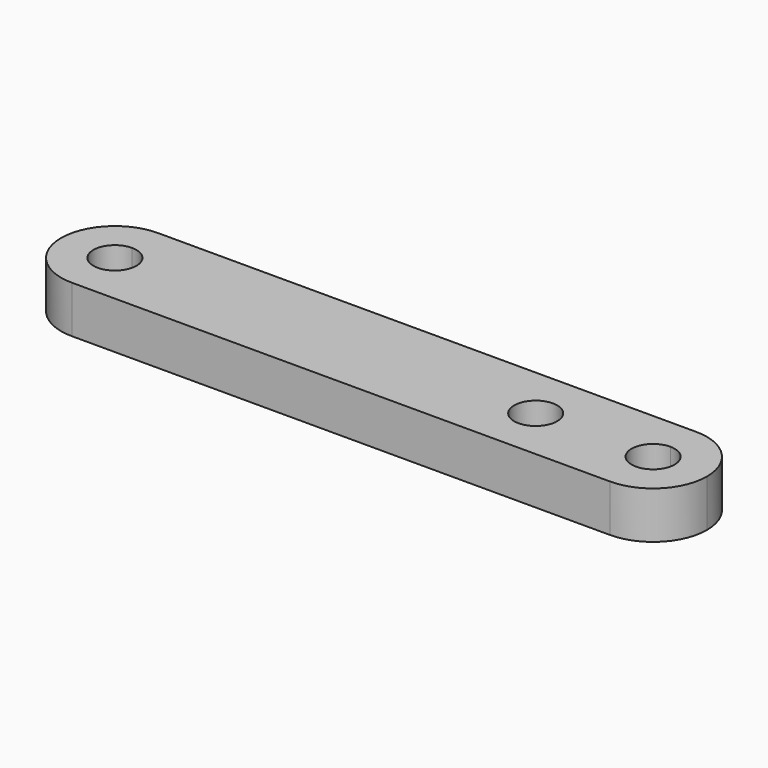
from build123d import *

# Parameters (mm, degrees)
F1_DEPTH = 3.5
F2_R     = 1.6
F3_DEPTH = 3.501


with BuildPart() as f1:
    # F0 (on Top) → F1 (new body)
    with BuildSketch(Plane.XY):
        with BuildLine():
            ThreePointArc((20, 4), (16, 0), (20, -4))
            Line((20, -4), (20, 4))
        make_face()
        with BuildLine():
            Line((-20, -4), (20, -4))
            ThreePointArc((20, -4), (16, 0), (20, 4))
            Line((20, 4), (-20, 4))
            ThreePointArc((-20, 4), (-17.1715728753, 2.8284271247), (-16, 0))
            ThreePointArc((-16, 0), (-17.1715728753, -2.8284271247), (-20, -4))
        make_face()
        with BuildLine():
            Line((20, 4), (20, -4))
            ThreePointArc((20, -4), (22.8284271247, -2.8284271247), (24, 0))
            ThreePointArc((24, 0), (22.8284271247, 2.8284271247), (20, 4))
        make_face()
        with BuildLine():
            ThreePointArc((-20, 4), (-24, 0), (-20, -4))
            Line((-20, -4), (-20, 4))
        make_face()
        with BuildLine():
            Line((-20, 4), (-20, -4))
            ThreePointArc((-20, -4), (-17.1715728753, -2.8284271247), (-16, 0))
            ThreePointArc((-16, 0), (-17.1715728753, 2.8284271247), (-20, 4))
        make_face()
    extrude(amount=F1_DEPTH)

    # F2 (on face) → F3 (cut, through all)
    with BuildSketch(Plane.XY.offset(3.5)):
        with BuildLine():
            ThreePointArc((-20, 1.6), (-21.6, 0), (-20, -1.6))
            Line((-20, -1.6), (-20, 1.6))
        make_face()
        with BuildLine():
            Line((-20, 1.6), (-20, -1.6))
            ThreePointArc((-20, -1.6), (-18.8686291501, -1.1313708499), (-18.4, 0))
            ThreePointArc((-18.4, 0), (-18.8686291501, 1.1313708499), (-20, 1.6))
        make_face()
        with BuildLine():
            ThreePointArc((20, 1.6), (18.4, 0), (20, -1.6))
            Line((20, -1.6), (20, 1.6))
        make_face()
        with BuildLine():
            Line((20, 1.6), (20, -1.6))
            ThreePointArc((20, -1.6), (21.1313708499, -1.1313708499), (21.6, 0))
            ThreePointArc((21.6, 0), (21.1313708499, 1.1313708499), (20, 1.6))
        make_face()
        with Locations((11.275196448, 0)):
            Circle(F2_R)
    extrude(amount=-F3_DEPTH, mode=Mode.SUBTRACT)


solid = f1.part
